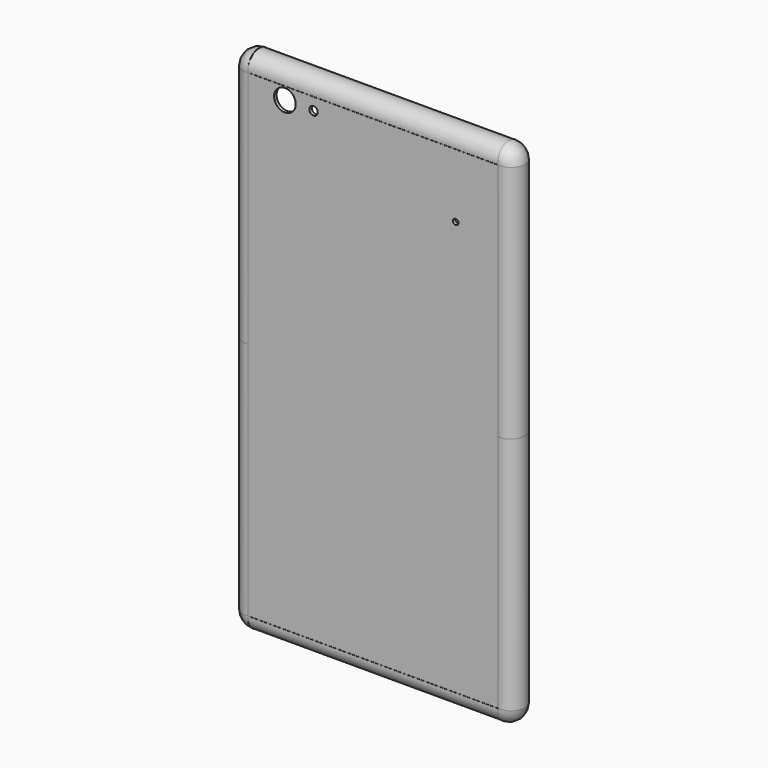
from build123d import *

# Parameters (mm, degrees)
F0_W      = 81
F0_H      = 155
F0_R      = 3.5
F0_R_2    = 1.3623510681
F0_R_3    = 0.8931999414
F2_DEPTH  = 1
F3_DEPTH  = 77.5000736
F4_DEPTH  = 77.5000736
F6_DEPTH  = 40.5003
F7_DEPTH  = 40.5003
F10_ANGLE = 90


with BuildPart() as f2:
    # F0 (on Front) → F2 (new body)
    with BuildSketch(Plane.XZ):
        Rectangle(F0_W, F0_H)
        with Locations((-28.5, 73.5)):
            Circle(F0_R, mode=Mode.SUBTRACT)
        with Locations((-19.2399080843, 73.5)):
            Circle(F0_R_2, mode=Mode.SUBTRACT)
        with Locations((26.8343064, 56.7815168)):
            Circle(F0_R_3, mode=Mode.SUBTRACT)
    extrude(amount=-F2_DEPTH)

    # F1 (on Top) → F3, piece 2 (join)
    with BuildSketch(Plane.XY):
        with BuildLine():
            Line((-40.3195688207, 8.6905952365), (-40.5130350174, 9.0282323907))
            ThreePointArc((-40.5130350174, 9.0282323907), (-44.5105638324, 4.5082722956), (-40.4998585582, 0))
            Line((-40.4998585582, 0), (-40.4998585582, 1))
            ThreePointArc((-40.4998585582, 1), (-42.5314511263, 4.8950372644), (-40.3195688207, 8.6905952365))
        make_face()
    extrude(amount=F3_DEPTH)


with BuildPart() as f3:
    # F1 (on Top) → F3 (new body)
    with BuildSketch(Plane.XY):
        with BuildLine():
            Line((40.5000858009, 1), (40.5000858009, 0))
            ThreePointArc((40.5000858009, 0), (45.6620669504, 4.5047616586), (40.5000858009, 9.0095233172))
            Line((40.5000858009, 9.0095233172), (40.0991290808, 8.7012909353))
            ThreePointArc((40.0991290808, 8.7012909353), (44.3555760459, 5.0618136838), (40.5000858009, 1))
        make_face()
    extrude(amount=F3_DEPTH)


with BuildPart() as f4:
    # F1 (on Top) → F4 (new body)
    with BuildSketch(Plane.XY):
        with BuildLine():
            Line((40.5000858009, 1), (40.5000858009, 0))
            ThreePointArc((40.5000858009, 0), (45.6620669504, 4.5047616586), (40.5000858009, 9.0095233172))
            Line((40.5000858009, 9.0095233172), (40.0991290808, 8.7012909353))
            ThreePointArc((40.0991290808, 8.7012909353), (44.3555760459, 5.0618136838), (40.5000858009, 1))
        make_face()
    extrude(amount=-F4_DEPTH)


with BuildPart() as f4b:
    # F1 (on Top) → F4, piece 2 (new body)
    with BuildSketch(Plane.XY):
        with BuildLine():
            Line((-40.3195688207, 8.6905952365), (-40.5130350174, 9.0282323907))
            ThreePointArc((-40.5130350174, 9.0282323907), (-44.5105638324, 4.5082722956), (-40.4998585582, 0))
            Line((-40.4998585582, 0), (-40.4998585582, 1))
            ThreePointArc((-40.4998585582, 1), (-42.5314511263, 4.8950372644), (-40.3195688207, 8.6905952365))
        make_face()
    extrude(amount=-F4_DEPTH)


with BuildPart() as f6:
    # F5 (on Right) → F6 (new body)
    with BuildSketch(Plane.YZ):
        with BuildLine():
            Line((9.0484265238, 77.5000676513), (9.0484265238, 78.41977737))
            ThreePointArc((9.0484265238, 78.41977737), (4.072060154, 82.5672864525), (0, 77.5289950816))
            Line((0, 77.5289950816), (0.9652, 77.5289950816))
            ThreePointArc((0.9652, 77.5289950816), (5.0156315465, 79.9786351909), (9.0484265238, 77.5000676513))
        make_face()
    extrude(amount=F6_DEPTH)

    # F7 (add): a face of the model
    f7_faces = [f6.faces().sort_by_distance(p)[0] for p in [
        (0, 4.2209866558, 80.4101695334),
    ]]
    extrude(f7_faces, amount=F7_DEPTH)


with BuildPart() as f8_1:
    # F8: instance of F6
    add(f6.part.mirror(Plane.XY))


with BuildPart() as f10:
    # F9 (on face) → F10 (revolve)
    with BuildSketch(Plane.XY.offset(77.5000736)):
        with BuildLine():
            ThreePointArc((40.5000858009, 8.7221295006), (44.3607983627, 4.8610647503), (40.5000858009, 1))
            Line((40.5000858009, 1), (40.5000858009, 0))
            ThreePointArc((40.5000858009, 0), (45.6620669504, 4.5047616586), (40.5000858009, 9.0095233172))
            Line((40.5000858009, 9.0095233172), (40.5000858009, 8.7221295006))
        make_face()
    revolve(axis=Axis((40.5000858009, 4.8610647503, 77.5000736), (0, -1, 0)), revolution_arc=F10_ANGLE)


with BuildPart() as f11_1:
    # F11: instance of F10
    add(f10.part.mirror(Plane.XY))


with BuildPart() as f12_1:
    # F12: instance of F11_1
    add(f11_1.part.mirror(Plane.YZ))


with BuildPart() as f12_2:
    # F12: instance of F10
    add(f10.part.mirror(Plane.YZ))


with BuildPart() as f13_1:
    # F13: instance of F4
    add(f4.part.mirror(Plane.YZ))


with BuildPart() as f13_2:
    # F13: instance of F3
    add(f3.part.mirror(Plane.YZ))


solid = Compound([f2.part, f3.part, f4.part, f4b.part, f6.part, f8_1.part, f10.part, f11_1.part, f12_1.part, f12_2.part, f13_1.part, f13_2.part])
